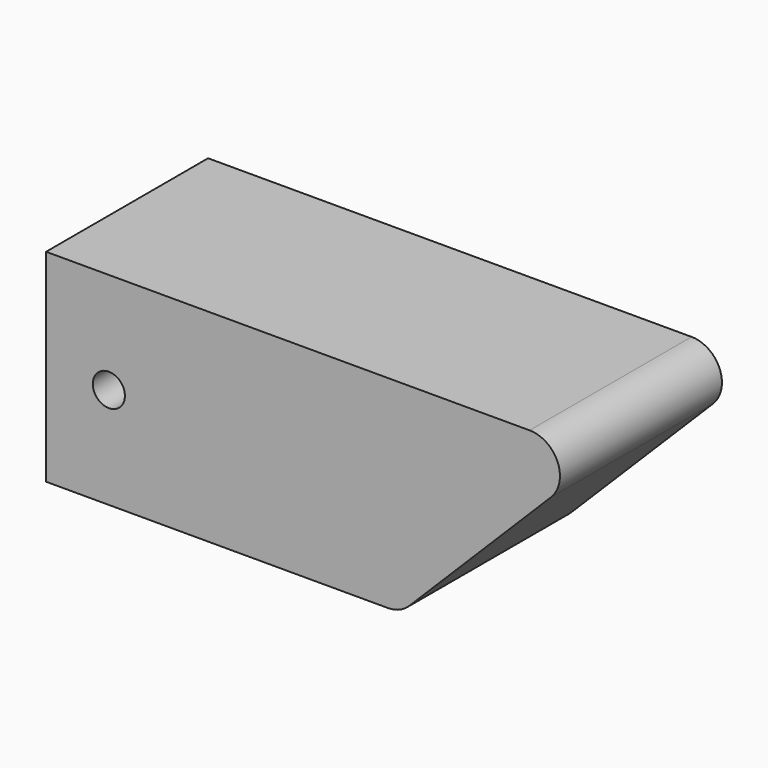
from build123d import *

# Parameters (mm, degrees)
F1_DEPTH = 10
F2_W     = 12.5
F2_H     = 12.5
F3_DEPTH = 30
F5_D     = 3.175


with BuildPart() as f1:
    # F0 (on Front) → F1 (new body, symmetric)
    with BuildSketch(Plane.XZ):
        with BuildLine():
            Line((47.757359, 10), (0, 10))
            Line((0, 10), (0, -10))
            Line((0, -10), (33.757359, -10))
            ThreePointArc((33.757359, -10), (34.90541, -9.771639), (35.87868, -9.12132))
            Line((35.87868, -9.12132), (49.87868, 4.87868))
            ThreePointArc((49.87868, 4.87868), (50.528998, 8.14805), (47.757359, 10))
        make_face()
    extrude(amount=F1_DEPTH, both=True)

    # F2 (on face) → F3 (cut)
    with BuildSketch(Plane(origin=(0, 0, 0), x_dir=(0, -1, 0), z_dir=(-1, 0, 0))):
        Rectangle(F2_W, F2_H)
    extrude(amount=-F3_DEPTH, mode=Mode.SUBTRACT)

    # F5 (through all)
    with Locations(Plane.XZ.offset(10)):
        with Locations((6.2, 0)):
            Hole(F5_D / 2)


solid = f1.part
